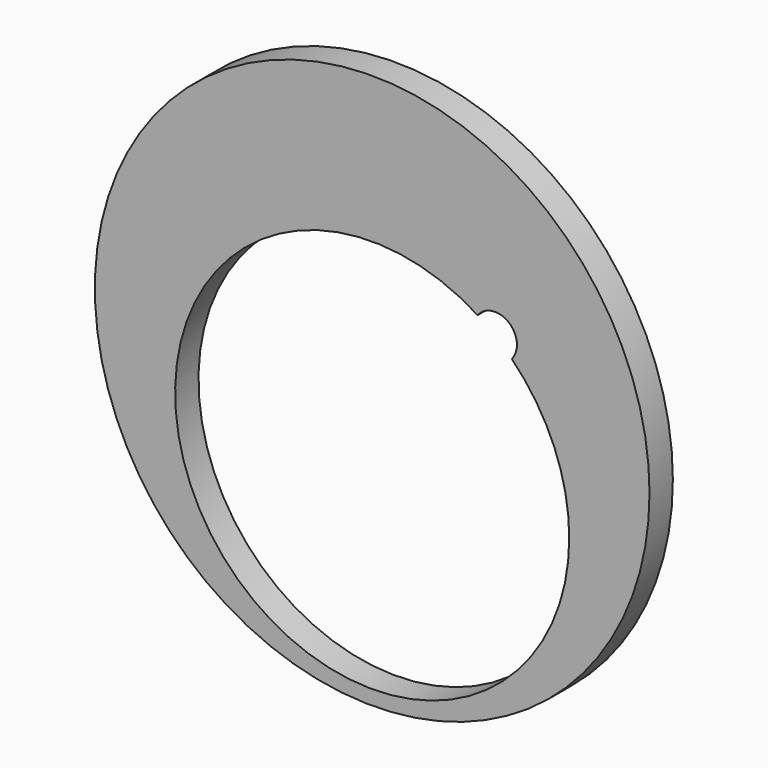
from build123d import *

# Parameters (mm, degrees)
F0_R     = 2.413
F1_DEPTH = 0.254


with BuildPart() as f1:
    # F0 (on Front) → F1 (new body)
    with BuildSketch(Plane.XZ):
        Circle(F0_R)
        with BuildLine():
            ThreePointArc((1.259332, 0.761321), (1.247786, 0.69601), (1.214549, 0.638616))
            ThreePointArc((1.214549, 0.638616), (1.584591, 0.083162), (1.7145, -0.5715))
            ThreePointArc((1.7145, -0.5715), (-1.502065, -1.398126), (0.917404, 0.876906))
            ThreePointArc((0.917404, 0.876906), (1.129837, 0.941789), (1.259332, 0.761321))
        make_face(mode=Mode.SUBTRACT)
    extrude(amount=F1_DEPTH)


solid = f1.part
